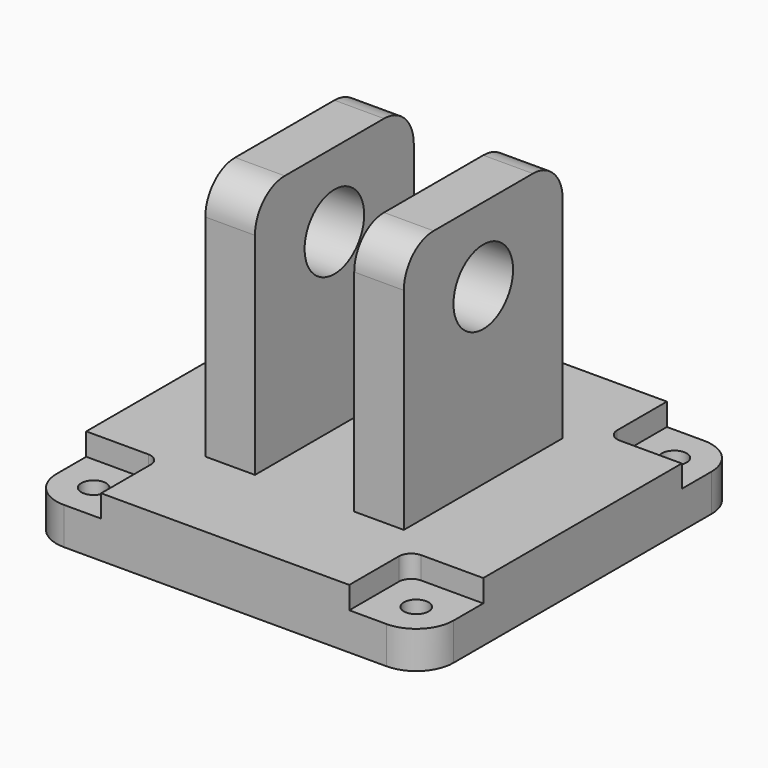
from build123d import *

# Parameters (mm, degrees)
F0_W     = 20
F0_H     = 80
F1_DEPTH = 24
F0_W_2   = 30
F0_H_2   = 30
F2_DEPTH = 15
F3_DEPTH = 124
F4_R     = 15
F5_R     = 5
F6_D     = 10
F7_R     = 15
F8_DEPTH = 52


with BuildPart() as f1:
    # F0 (on Top) → F1 (new body)
    with BuildSketch(Plane.XY):
        Polygon((-50, -80), (50, -80), (50, -50), (80, -50), (80, 50), (50, 50), (50, 80), (-50, 80), (-50, 50), (-80, 50), (-80, -50), (-50, -50), align=None)
        with Locations((-30, 0)):
            Rectangle(F0_W, F0_H, mode=Mode.SUBTRACT)
        with Locations((30, 0)):
            Rectangle(F0_W, F0_H, mode=Mode.SUBTRACT)
    extrude(amount=F1_DEPTH)

    # F0 (on Top) → F2 (join)
    with BuildSketch(Plane.XY):
        with Locations((-65, -65)):
            Rectangle(F0_W_2, F0_H_2)
        with Locations((65, -65)):
            Rectangle(F0_W_2, F0_H_2)
        with Locations((65, 65)):
            Rectangle(F0_W_2, F0_H_2)
        with Locations((-65, 65)):
            Rectangle(F0_W_2, F0_H_2)
    extrude(amount=F2_DEPTH)

    # F0 (on Top) → F3 (join)
    with BuildSketch(Plane.XY):
        with Locations((-30, 0)):
            Rectangle(F0_W, F0_H)
        with Locations((30, 0)):
            Rectangle(F0_W, F0_H)
    extrude(amount=F3_DEPTH)

    # F4
    f4_edges = [f1.edges().sort_by_distance(p)[0] for p in [
        (-30, -40, 124),
        (30, -40, 124),
        (30, 40, 124),
        (-30, 40, 124),
        (-80, -80, 7.5),
        (80, -80, 7.5),
        (-80, 80, 7.5),
        (80, 80, 7.5),
    ]]
    fillet(f4_edges, radius=F4_R)

    # F5
    f5_edges = [f1.edges().sort_by_distance(p)[0] for p in [
        (50, 50, 19.5),
        (-50, 50, 19.5),
        (-50, -50, 19.5),
        (50, -50, 19.5),
    ]]
    fillet(f5_edges, radius=F5_R)

    # F6 (through all)
    with Locations(Plane(origin=(0, 0, 0), x_dir=(1, 0, 0), z_dir=(0, 0, -1))):
        with Locations((-65, 65), (-65, -65), (65, -65), (65, 65)):
            Hole(F6_D / 2)

    # F7 (on Right) → F8 (cut, symmetric)
    with BuildSketch(Plane.YZ):
        with Locations((0, 94)):
            Circle(F7_R)
    extrude(amount=F8_DEPTH, both=True, mode=Mode.SUBTRACT)


solid = f1.part
